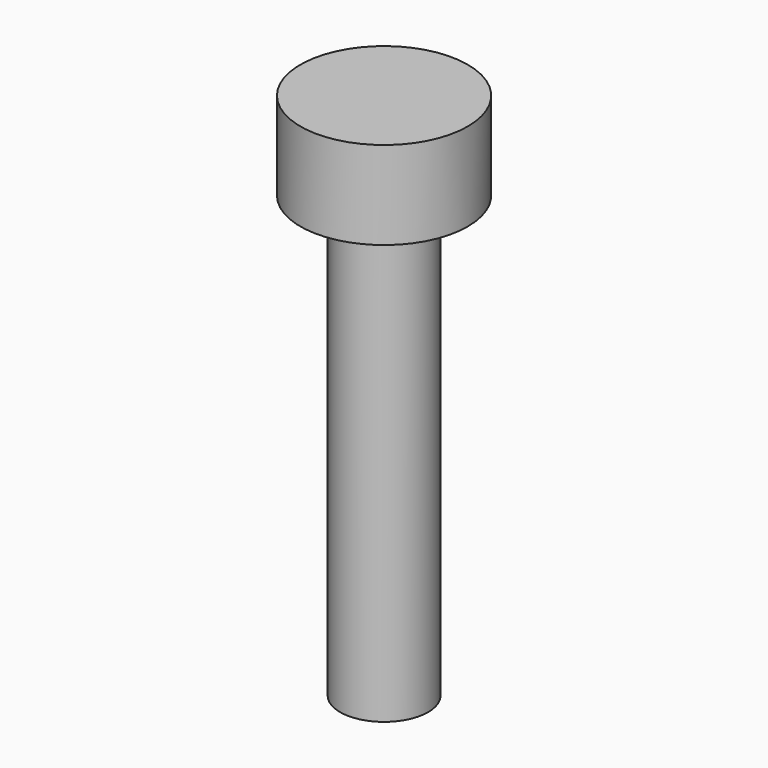
from build123d import *


with BuildPart() as part:
    # Sketch → Revolution (revolve)
    with BuildSketch(Plane.XZ):
        Polygon((0, 0), (1, 0), (1, 10), (1.9, 10), (1.9, 12), (0, 12), align=None)
    revolve(axis=Axis((0, 0, 0), (0, 0, 1)))


solid = part.part
